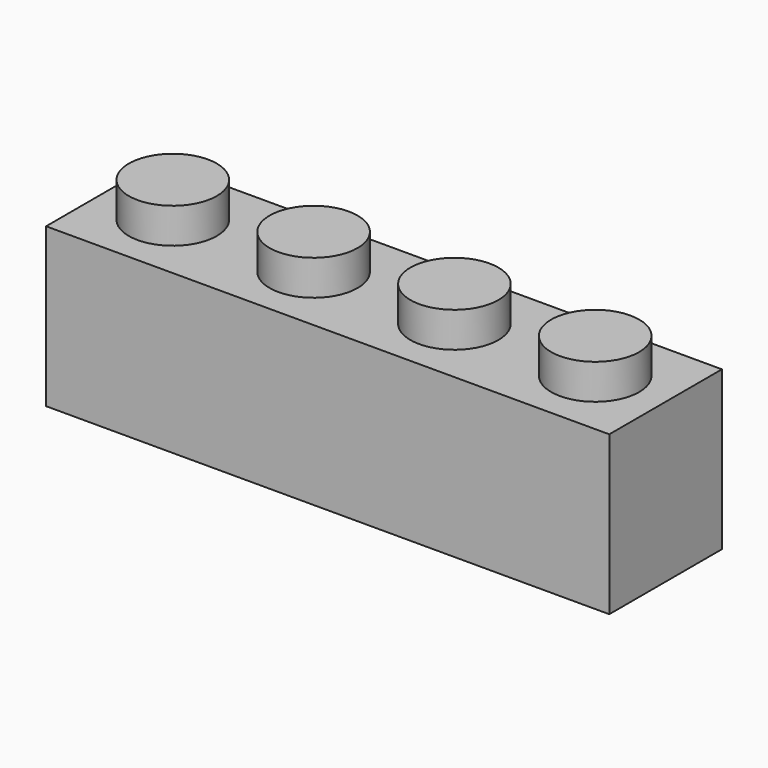
from build123d import *

# Parameters (mm, degrees)
F0_W     = 32
F0_H     = 9
F1_DEPTH = 8
F2_R     = 2.5
F3_DEPTH = 2
F4_W     = 29
F4_H     = 5
F4_R     = 1.5
F5_DEPTH = 8
F6_R     = 1.25
F7_DEPTH = 10


with BuildPart() as f1:
    # F0 (on Front) → F1 (new body)
    with BuildSketch(Plane.XZ):
        Rectangle(F0_W, F0_H)
    extrude(amount=-F1_DEPTH)

    # F2 (on face) → F3 (join)
    with BuildSketch(Plane.XY.offset(4.5)):
        with Locations((-12, 4)):
            Circle(F2_R)
        with Locations((-4, 4)):
            Circle(F2_R)
        with Locations((4, 4)):
            Circle(F2_R)
        with Locations((12, 4)):
            Circle(F2_R)
    extrude(amount=F3_DEPTH)

    # F4 (on face) → F5 (cut)
    with BuildSketch(Plane(origin=(0, 0, -4.5), x_dir=(1, 0, 0), z_dir=(0, 0, -1))):
        with Locations((0, -4)):
            Rectangle(F4_W, F4_H)
        with Locations((-8, -4)):
            Circle(F4_R, mode=Mode.SUBTRACT)
        with Locations((0, -4)):
            Circle(F4_R, mode=Mode.SUBTRACT)
        with Locations((8, -4)):
            Circle(F4_R, mode=Mode.SUBTRACT)
    extrude(amount=-F5_DEPTH, mode=Mode.SUBTRACT)

    # F6 (on face) → F7 (cut)
    with BuildSketch(Plane(origin=(0, 0, -4.5), x_dir=(1, 0, 0), z_dir=(0, 0, -1))):
        with Locations((-12, -4)):
            Circle(F6_R)
        with Locations((-4, -4)):
            Circle(F6_R)
        with Locations((4, -4)):
            Circle(F6_R)
        with Locations((12, -4)):
            Circle(F6_R)
    extrude(amount=-F7_DEPTH, mode=Mode.SUBTRACT)


solid = f1.part
